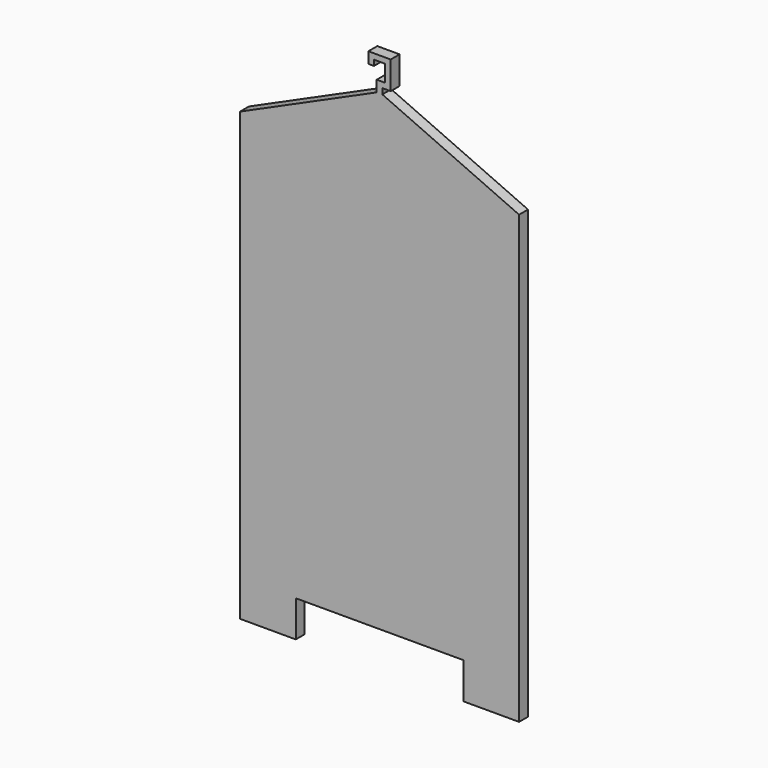
from build123d import *

# Parameters (mm, degrees)
F1_DEPTH = 20


with BuildPart() as f1:
    # F0 (on Front) → F1 (new body)
    with BuildSketch(Plane.XZ):
        Polygon((0, 800), (0, 0), (100, 0), (100, 65), (400, 65), (400, 0), (500, 0), (500, 800), (255, 910), (255, 920), (270, 920), (270, 930), (270, 960), (270, 970), (230, 970), (230, 960), (230, 950), (240, 950), (240, 960), (260, 960), (260, 930), (245, 930), (245, 920), (245, 910), align=None)
    extrude(amount=F1_DEPTH)


solid = f1.part
